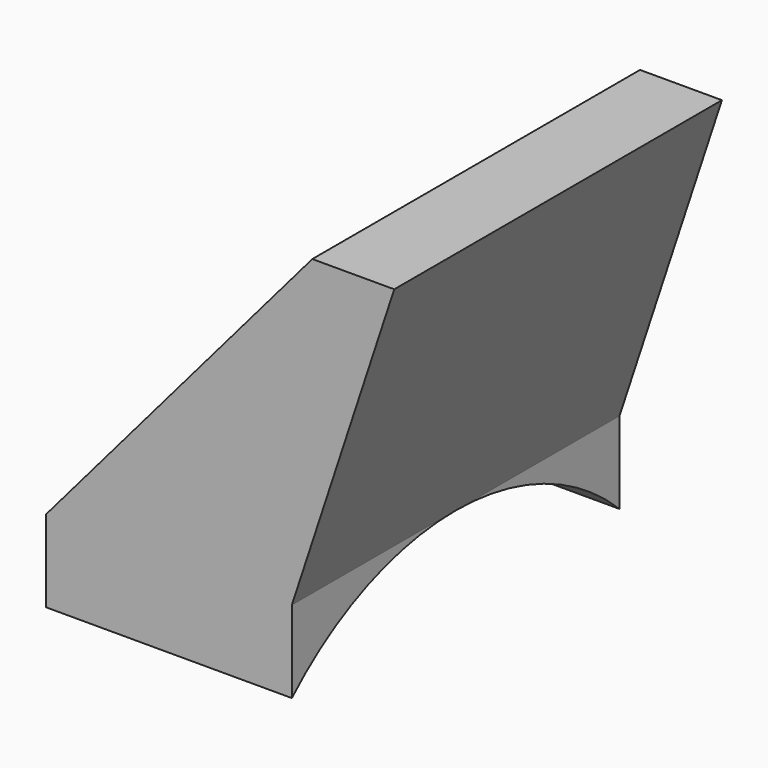
from build123d import *

# Parameters (mm, degrees)
F1_DEPTH = 5
F2_DEPTH = 1
F4_DEPTH = 25


with BuildPart() as f1:
    # F0 (on Front) → F1 (new body)
    with BuildSketch(Plane.XZ):
        Polygon((3.25, 3.7996710384), (0, 0), (3, 0), (4.25, 3.7996710384), align=None)
    extrude(amount=F1_DEPTH)

    # F2 (add): a face of the model
    f2_faces = [f1.faces().sort_by_distance(p)[0] for p in [
        (1.5, -2.5, 0),
    ]]
    extrude(f2_faces, amount=F2_DEPTH)

    # F3 (on face) → F4 (cut)
    with BuildSketch(Plane(origin=(0, 0, 0), x_dir=(0, -1, 0), z_dir=(-1, 0, 0))):
        with BuildLine():
            Line((0, -1), (5, -1))
            ThreePointArc((5, -1), (3.8462912018, -0.2592719955), (2.5, 0))
            ThreePointArc((2.5, 0), (1.1537087982, -0.2592719955), (0, -1))
        make_face()
    extrude(amount=-F4_DEPTH, mode=Mode.SUBTRACT)


solid = f1.part
